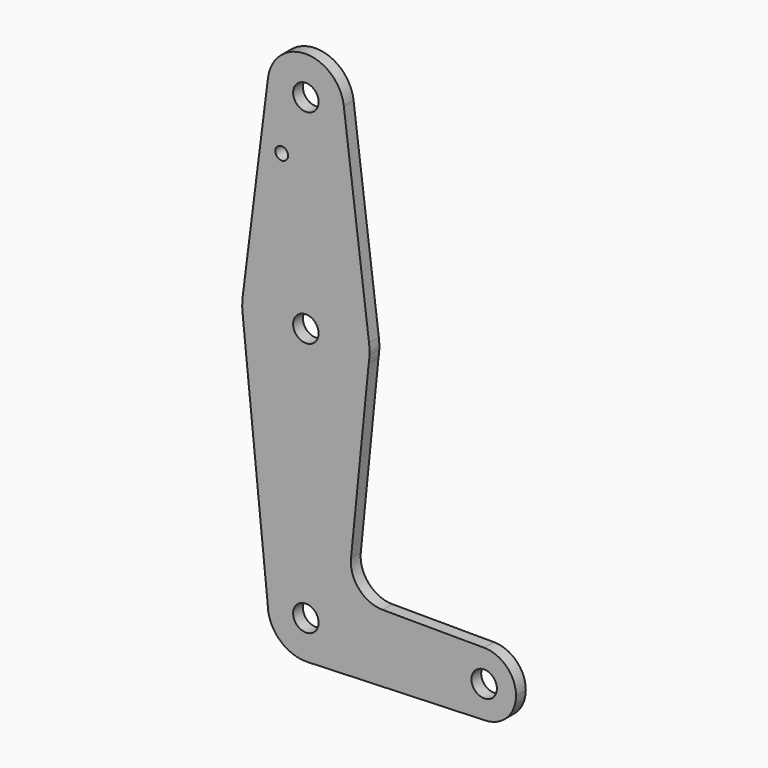
from build123d import *

# Parameters (mm, degrees)
F0_R     = 3.175
F0_R_2   = 1.5875
F1_DEPTH = 3.048


with BuildPart() as f1:
    # F0 (on Front) → F1 (new body)
    with BuildSketch(Plane.XZ):
        with BuildLine():
            ThreePointArc((-9.45896, 115.419686), (-0.560816, 104.791524), (9.525, 114.3))
            ThreePointArc((9.525, 114.3), (9.506305, 114.896483), (9.450293, 115.490625))
            ThreePointArc((9.450293, 115.490625), (-0.035733, 123.824933), (-9.45896, 115.419686))
        make_face()
        with Locations((0, 114.3)):
            Circle(F0_R, mode=Mode.SUBTRACT)
        with BuildLine():
            ThreePointArc((9.450293, 115.490625), (9.506305, 114.896483), (9.525, 114.3))
            ThreePointArc((9.525, 114.3), (-0.560816, 104.791524), (-9.45896, 115.419686))
            Line((-9.45896, 115.419686), (-15.750478, 65.484459))
            ThreePointArc((-15.750478, 65.484459), (4.2e-05, 79.375), (15.750488, 65.484375))
            Line((15.750488, 65.484375), (9.450293, 115.490625))
        make_face()
        with Locations((-6.025705, 100.0252)):
            Circle(F0_R_2, mode=Mode.SUBTRACT)
        with BuildLine():
            ThreePointArc((15.875, 63.5), (15.843841, 64.494139), (15.750488, 65.484375))
            ThreePointArc((15.750488, 65.484375), (4.2e-05, 79.375), (-15.750478, 65.484459))
            ThreePointArc((-15.750478, 65.484459), (-15.873819, 63.693658), (-15.794203, 61.90038))
            ThreePointArc((-15.794203, 61.90038), (-0.486978, 47.632471), (15.666385, 60.934849))
            Line((15.666385, 60.934849), (15.864103, 62.911902))
            ThreePointArc((15.864103, 62.911902), (15.872276, 63.2059), (15.875, 63.5))
        make_face()
        with Locations((0, 63.5)):
            Circle(F0_R, mode=Mode.SUBTRACT)
        with BuildLine():
            ThreePointArc((15.666385, 60.934849), (-0.486978, 47.632471), (-15.794203, 61.90038))
            Line((-15.794203, 61.90038), (-9.525, 0))
            ThreePointArc((-9.525, 0), (0, 9.525), (9.525, 0))
            ThreePointArc((9.525, 0), (9.513173, -0.474505), (9.477723, -0.947833))
            ThreePointArc((9.477723, -0.947833), (6.516418, -6.94708), (0.340179, -9.518923))
            Line((0.340179, -9.518923), (44.733482, -7.932436))
            ThreePointArc((44.733482, -7.932436), (36.513515, -0.126914), (44.479704, 7.937444))
            Line((44.479704, 7.937444), (19.130965, 8.032305))
            ThreePointArc((19.130965, 8.032305), (13.256032, 10.658881), (11.249977, 16.773574))
            Line((11.249977, 16.773574), (15.666385, 60.934849))
        make_face()
        with BuildLine():
            ThreePointArc((15.666385, 60.934849), (15.796205, 61.920279), (15.864103, 62.911902))
            Line((15.864103, 62.911902), (15.666385, 60.934849))
        make_face()
        with BuildLine():
            ThreePointArc((9.525, 0), (0, 9.525), (-9.525, 0))
            ThreePointArc((-9.525, 0), (-6.613827, -6.854408), (0.340179, -9.518923))
            ThreePointArc((0.340179, -9.518923), (6.516418, -6.94708), (9.477723, -0.947833))
            ThreePointArc((9.477723, -0.947833), (9.513173, -0.474505), (9.525, 0))
        make_face()
        Circle(F0_R, mode=Mode.SUBTRACT)
        with BuildLine():
            ThreePointArc((44.479704, 7.937444), (36.513515, -0.126914), (44.733482, -7.932436))
            ThreePointArc((44.733482, -7.932436), (50.162007, -5.511523), (52.3875, 0))
            ThreePointArc((52.3875, 0), (50.073152, 5.602148), (44.479704, 7.937444))
        make_face()
        with Locations((44.45, 0)):
            Circle(F0_R, mode=Mode.SUBTRACT)
    extrude(amount=F1_DEPTH)


solid = f1.part
